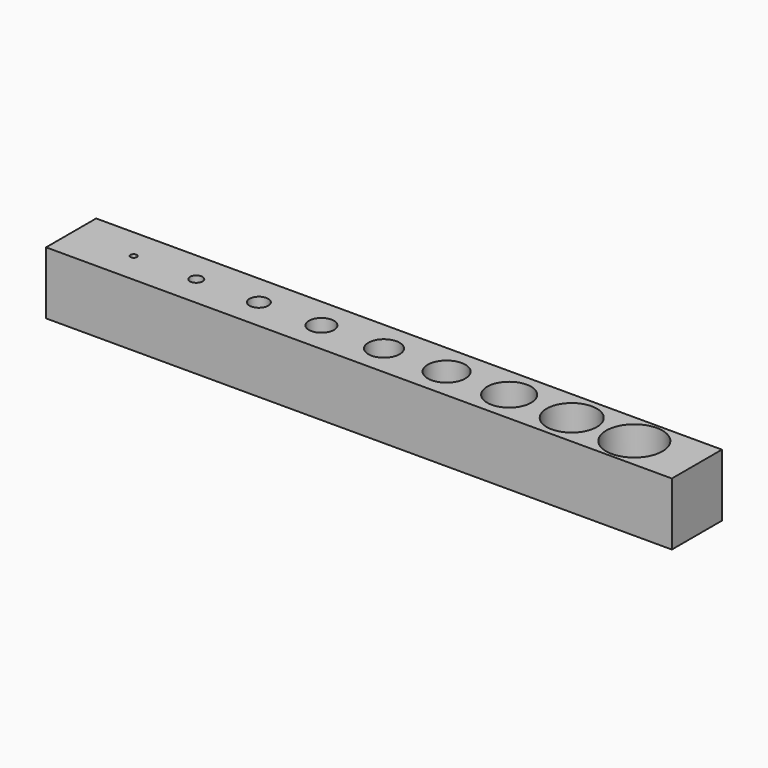
from build123d import *

# Parameters (mm, degrees)
SKETCH_W   = 100
SKETCH_H   = 10
SKETCH_R   = 1
SKETCH_R_2 = 2
SKETCH_R_3 = 3
SKETCH_R_4 = 4
SKETCH_R_5 = 0.5
SKETCH_R_6 = 1.5
SKETCH_R_7 = 2.5
SKETCH_R_8 = 3.5
SKETCH_R_9 = 4.5
PAD_DEPTH  = 10


with BuildPart() as part:
    # Sketch → Pad (new body)
    with BuildSketch(Plane.XY):
        with Locations((50, 0)):
            Rectangle(SKETCH_W, SKETCH_H)
        with Locations((20, 0)):
            Circle(SKETCH_R, mode=Mode.SUBTRACT)
        with Locations((40, 0)):
            Circle(SKETCH_R_2, mode=Mode.SUBTRACT)
        with Locations((60, 0)):
            Circle(SKETCH_R_3, mode=Mode.SUBTRACT)
        with Locations((80, 0)):
            Circle(SKETCH_R_4, mode=Mode.SUBTRACT)
        with Locations((10, 0)):
            Circle(SKETCH_R_5, mode=Mode.SUBTRACT)
        with Locations((30, 0)):
            Circle(SKETCH_R_6, mode=Mode.SUBTRACT)
        with Locations((50, 0)):
            Circle(SKETCH_R_7, mode=Mode.SUBTRACT)
        with Locations((70, 0)):
            Circle(SKETCH_R_8, mode=Mode.SUBTRACT)
        with Locations((90, 0)):
            Circle(SKETCH_R_9, mode=Mode.SUBTRACT)
    extrude(amount=-PAD_DEPTH)


solid = part.part
